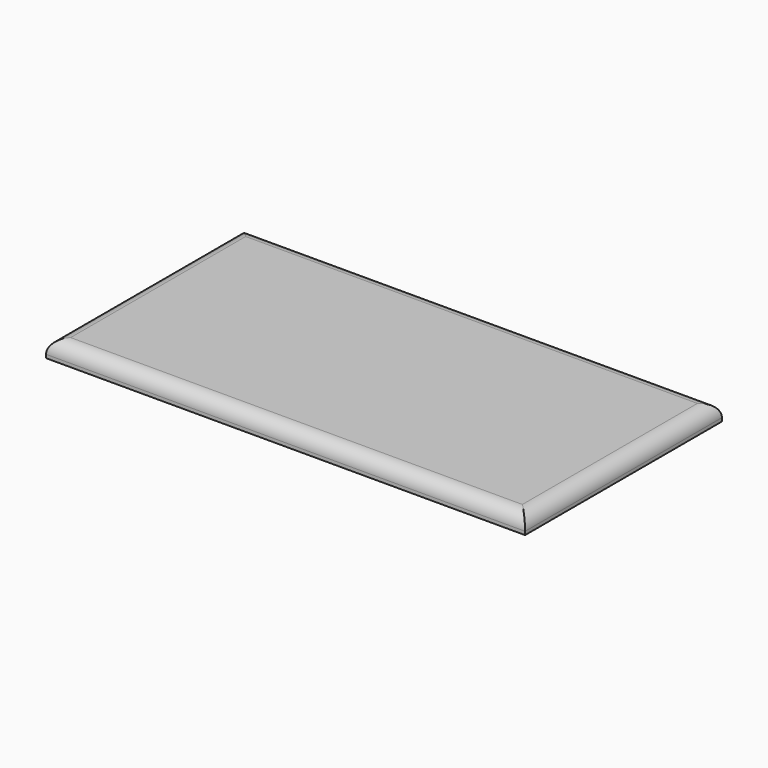
from build123d import *

# Parameters (mm, degrees)
F0_W     = 178.507768
F0_H     = 91.6887
F1_DEPTH = 6.35
F2_R     = 5.08
F3_T     = -2.54


with BuildPart() as f1:
    # F0 (on Top) → F1 (new body)
    with BuildSketch(Plane.XY):
        with Locations((-30.921195, -4.082151)):
            Rectangle(F0_W, F0_H)
    extrude(amount=F1_DEPTH)

    # F2
    f2_edges = [f1.edges().sort_by_distance(p)[0] for p in [
        (-30.921195, -49.926501, 6.35),
        (-30.921195, 41.762199, 6.35),
        (-120.175079, -4.082151, 6.35),
        (58.332689, -4.082151, 6.35),
    ]]
    fillet(f2_edges, radius=F2_R)

    # F3
    f3_openings = [f1.faces().sort_by_distance(p)[0] for p in [
        (-30.921195, -4.082151, 0),
    ]]
    offset(amount=F3_T, openings=f3_openings)


solid = f1.part
